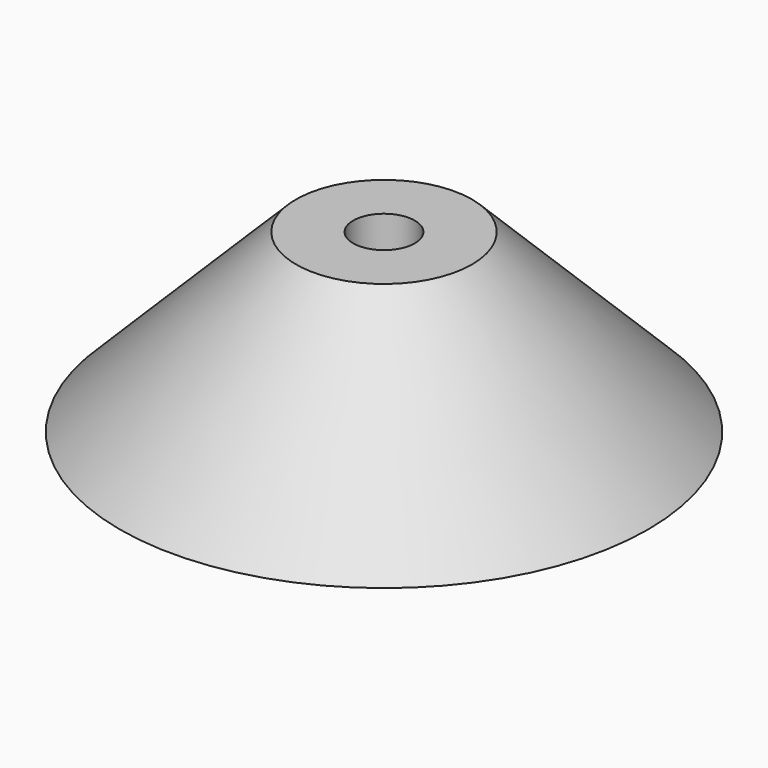
from build123d import *

# Parameters (mm, degrees)
F0_R = 38.1
F2_R = 12.7
F5_D = 8.89


with BuildPart() as f3:
    # F0 (on Top) → F3 section 0
    with BuildSketch(Plane.XY):
        Circle(F0_R)
    # F2 (on offset) → F3 section 1
    with BuildSketch(Plane.XY.offset(25.4)):
        Circle(F2_R)
    loft()

    # F5 (through all)
    with Locations(Plane.XY.offset(25.4)):
        with Locations((0, 0)):
            Hole(F5_D / 2)


solid = f3.part
